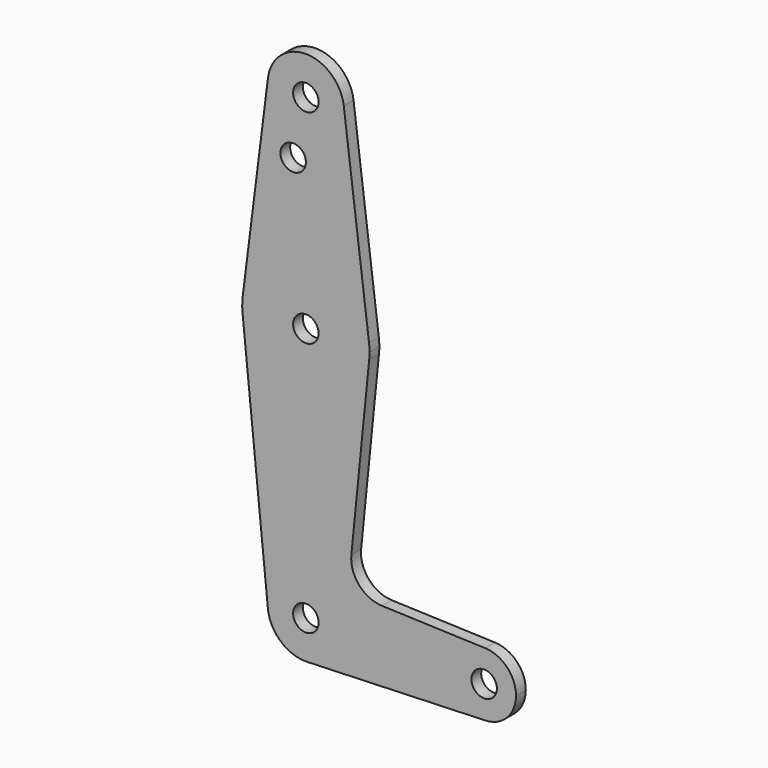
from build123d import *

# Parameters (mm, degrees)
F0_R     = 3.175
F1_DEPTH = 3.048


with BuildPart() as f1:
    # F0 (on Front) → F1 (new body)
    with BuildSketch(Plane.XZ):
        with BuildLine():
            ThreePointArc((0.339362, -9.518953), (6.854125, -6.614121), (9.525, 0))
            ThreePointArc((9.525, 0), (-0.476848, 9.513056), (-9.477255, -0.9525))
            ThreePointArc((-9.477255, -0.9525), (-6.262691, -7.176651), (0.339362, -9.518953))
        make_face()
        Circle(F0_R, mode=Mode.SUBTRACT)
        with BuildLine():
            ThreePointArc((-9.477255, -0.9525), (-0.476848, 9.513056), (9.525, 0))
            ThreePointArc((9.525, 0), (6.854125, -6.614121), (0.339362, -9.518953))
            Line((0.339362, -9.518953), (44.732938, -7.936268))
            ThreePointArc((44.732938, -7.936268), (36.50869, 0), (44.732938, 7.936268))
            Line((44.732938, 7.936268), (18.968442, 8.854803))
            ThreePointArc((18.968442, 8.854803), (13.261584, 11.572696), (11.341347, 17.594976))
            Line((11.341347, 17.594976), (15.795426, 61.9125))
            ThreePointArc((15.795426, 61.9125), (0, 47.625), (-15.795426, 61.9125))
            Line((-15.795426, 61.9125), (-9.477255, -0.9525))
        make_face()
        with BuildLine():
            ThreePointArc((-15.750488, 65.484375), (-15.873744, 63.699705), (-15.795426, 61.9125))
            ThreePointArc((-15.795426, 61.9125), (0, 47.625), (15.795426, 61.9125))
            ThreePointArc((15.795426, 61.9125), (15.855094, 62.705253), (15.875, 63.5))
            ThreePointArc((15.875, 63.5), (15.843841, 64.494139), (15.750488, 65.484375))
            ThreePointArc((15.750488, 65.484375), (0, 79.375), (-15.750488, 65.484375))
        make_face()
        with Locations((0, 63.5)):
            Circle(F0_R, mode=Mode.SUBTRACT)
        with BuildLine():
            ThreePointArc((44.732938, 7.936268), (36.50869, 0), (44.732938, -7.936268))
            ThreePointArc((44.732938, -7.936268), (50.164512, -5.514413), (52.39131, 0))
            ThreePointArc((52.39131, 0), (50.164512, 5.514413), (44.732938, 7.936268))
        make_face()
        with Locations((44.45, 0)):
            Circle(F0_R, mode=Mode.SUBTRACT)
        with BuildLine():
            Line((-9.450293, 115.490625), (-15.750488, 65.484375))
            ThreePointArc((-15.750488, 65.484375), (0, 79.375), (15.750488, 65.484375))
            Line((15.750488, 65.484375), (9.450293, 115.490625))
            ThreePointArc((9.450293, 115.490625), (9.506305, 114.896483), (9.525, 114.3))
            ThreePointArc((9.525, 114.3), (-0.596483, 104.793695), (-9.450293, 115.490625))
        make_face()
        with Locations((-3.175, 100.0252)):
            Circle(F0_R, mode=Mode.SUBTRACT)
        with BuildLine():
            ThreePointArc((9.450293, 115.490625), (0, 123.825), (-9.450293, 115.490625))
            ThreePointArc((-9.450293, 115.490625), (-0.596483, 104.793695), (9.525, 114.3))
            ThreePointArc((9.525, 114.3), (9.506305, 114.896483), (9.450293, 115.490625))
        make_face()
        with Locations((0, 114.3)):
            Circle(F0_R, mode=Mode.SUBTRACT)
    extrude(amount=F1_DEPTH)


solid = f1.part
